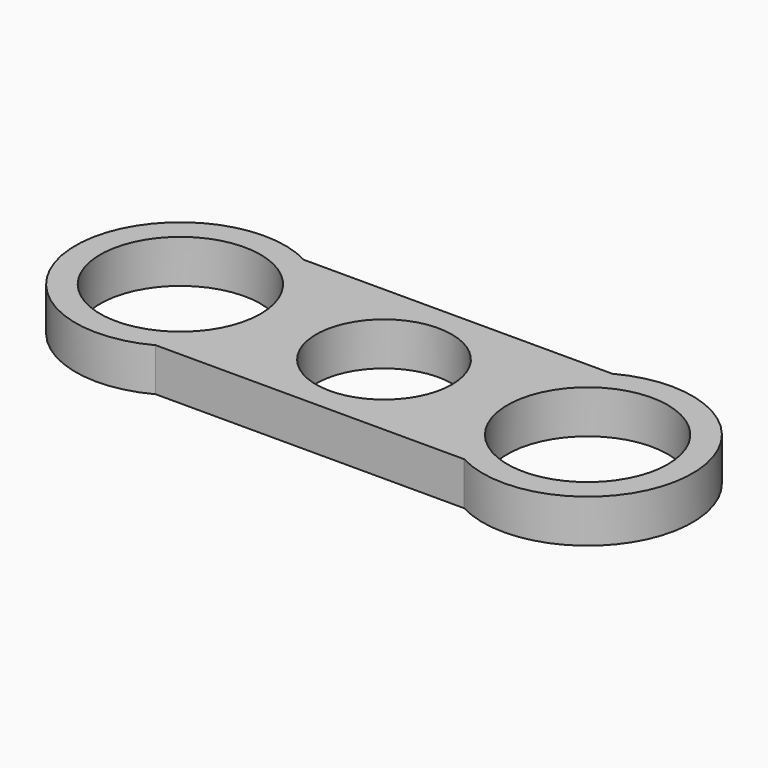
from build123d import *

# Parameters (mm, degrees)
F0_R     = 13
F0_R_2   = 11
F1_DEPTH = 7


with BuildPart() as f1:
    # F0 (on Top) → F1 (new body)
    with BuildSketch(Plane.XY):
        with BuildLine():
            Line((25, 15), (-25, 15))
            ThreePointArc((-25, 15), (-50, 0), (-25, -15))
            Line((-25, -15), (0, -15))
            Line((0, -15), (25, -15))
            ThreePointArc((25, -15), (50, 0), (25, 15))
        make_face()
        with Locations((-33, 0)):
            Circle(F0_R, mode=Mode.SUBTRACT)
        Circle(F0_R_2, mode=Mode.SUBTRACT)
        with Locations((33, 0)):
            Circle(F0_R, mode=Mode.SUBTRACT)
    extrude(amount=F1_DEPTH)


solid = f1.part
